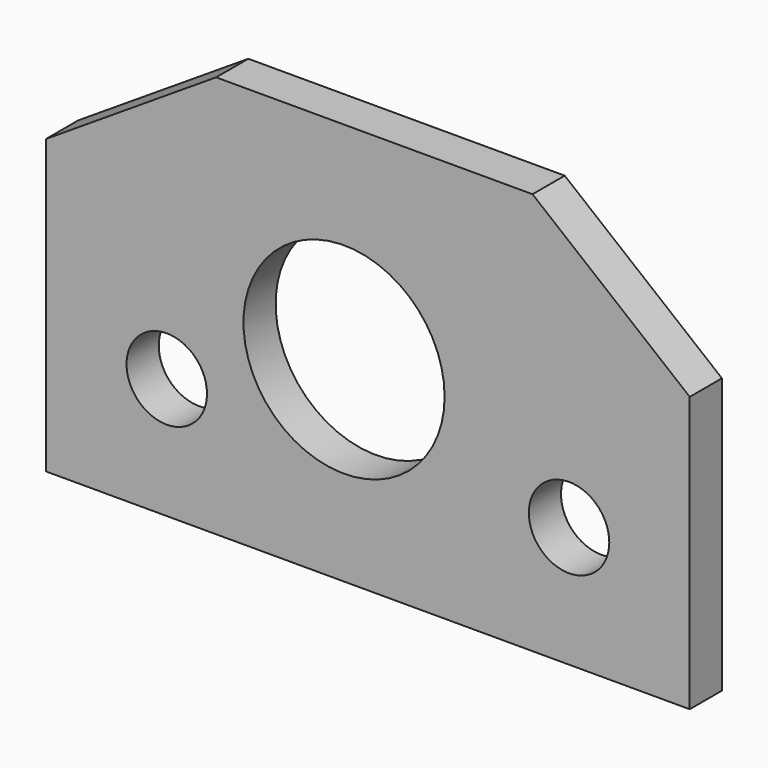
from build123d import *

# Parameters (mm, degrees)
F0_R     = 2.5
F0_R_2   = 6.25
F1_DEPTH = 2.5


with BuildPart() as f1:
    # F0 (on Front) → F1 (new body)
    with BuildSketch(Plane.XZ):
        Polygon((-14.030276, 17.5), (-24.598361, 10.694085), (-24.598361, -7.5), (15.401639, -7.5), (15.401639, 9.590163), (5.632331, 17.5), align=None)
        with Locations((-17.098361, 0)):
            Circle(F0_R, mode=Mode.SUBTRACT)
        with Locations((-6.081968, 4.647542)):
            Circle(F0_R_2, mode=Mode.SUBTRACT)
        with Locations((7.901639, 0)):
            Circle(F0_R, mode=Mode.SUBTRACT)
    extrude(amount=F1_DEPTH)


solid = f1.part
